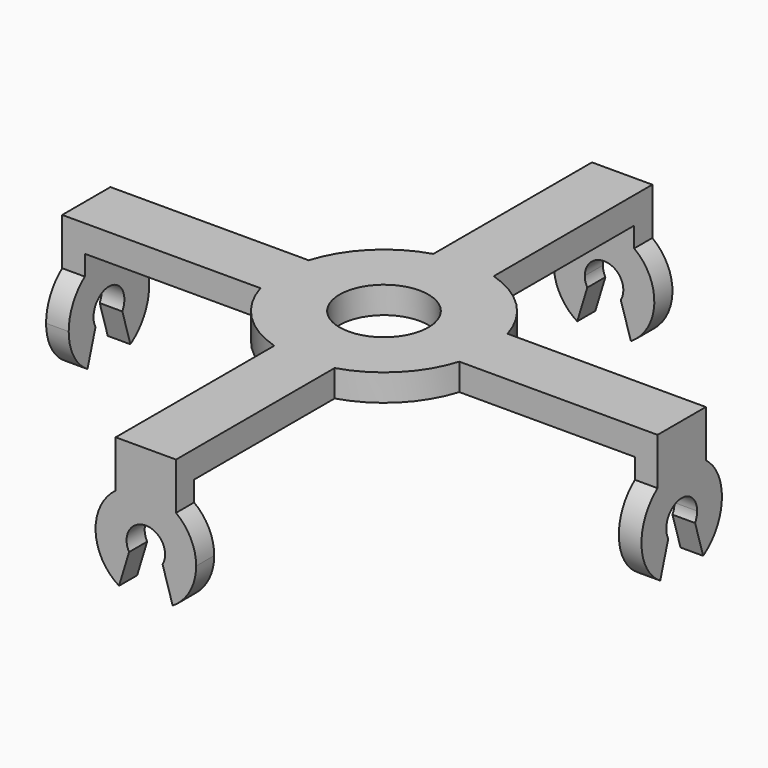
from build123d import *

# Parameters (mm, degrees)
F0_W      = 9
F0_H      = 9
F1_DEPTH  = 4
F7_DEPTH  = 3.375
F8_DEPTH  = 3.375
F9_DEPTH  = 3.375
F10_DEPTH = 3.375
F11_D     = 13.25


with BuildPart() as f1:
    # F0 (on Top) → F1 (new body)
    with BuildSketch(Plane.XY):
        with BuildLine():
            ThreePointArc((4.5, -14.8323969742), (0, -15.5), (-4.5, -14.8323969742))
            Line((-4.5, -14.8323969742), (-4.5, -44.4))
            Line((-4.5, -44.4), (4.5, -44.4))
            Line((4.5, -44.4), (4.5, -14.8323969742))
        make_face()
        with BuildLine():
            Line((4.5, -4.5), (-4.5, -4.5))
            Line((-4.5, -4.5), (-4.5, -14.8323969742))
            ThreePointArc((-4.5, -14.8323969742), (0, -15.5), (4.5, -14.8323969742))
            Line((4.5, -14.8323969742), (4.5, -4.5))
        make_face()
        with BuildLine():
            Line((-4.5, -4.5), (-14.8323969742, -4.5))
            ThreePointArc((-14.8323969742, -4.5), (-10.9601551084, -10.9601551084), (-4.5, -14.8323969742))
            Line((-4.5, -14.8323969742), (-4.5, -4.5))
        make_face()
        with BuildLine():
            Line((-4.5, 4.5), (-14.8323969742, 4.5))
            ThreePointArc((-14.8323969742, 4.5), (-15.5, 0), (-14.8323969742, -4.5))
            Line((-14.8323969742, -4.5), (-4.5, -4.5))
            Line((-4.5, -4.5), (-4.5, 4.5))
        make_face()
        with BuildLine():
            Line((14.8323969742, -4.5), (4.5, -4.5))
            Line((4.5, -4.5), (4.5, -14.8323969742))
            ThreePointArc((4.5, -14.8323969742), (10.9601551084, -10.9601551084), (14.8323969742, -4.5))
        make_face()
        with BuildLine():
            Line((14.8323969742, 4.5), (4.5, 4.5))
            Line((4.5, 4.5), (4.5, -4.5))
            Line((4.5, -4.5), (14.8323969742, -4.5))
            ThreePointArc((14.8323969742, -4.5), (15.3321908594, -2.2746260022), (15.5, 0))
            ThreePointArc((15.5, 0), (15.3321908594, 2.2746260022), (14.8323969742, 4.5))
        make_face()
        with BuildLine():
            Line((44.4, 4.5), (14.8323969742, 4.5))
            ThreePointArc((14.8323969742, 4.5), (15.3321908594, 2.2746260022), (15.5, 0))
            ThreePointArc((15.5, 0), (15.3321908594, -2.2746260022), (14.8323969742, -4.5))
            Line((14.8323969742, -4.5), (44.4, -4.5))
            Line((44.4, -4.5), (44.4, 4.5))
        make_face()
        with BuildLine():
            Line((-14.8323969742, 4.5), (-44.4, 4.5))
            Line((-44.4, 4.5), (-44.4, -4.5))
            Line((-44.4, -4.5), (-14.8323969742, -4.5))
            ThreePointArc((-14.8323969742, -4.5), (-15.5, 0), (-14.8323969742, 4.5))
        make_face()
        Rectangle(F0_W, F0_H)
        with BuildLine():
            Line((-4.5, 14.8323969742), (-4.5, 4.5))
            Line((-4.5, 4.5), (4.5, 4.5))
            Line((4.5, 4.5), (4.5, 14.8323969742))
            ThreePointArc((4.5, 14.8323969742), (0, 15.5), (-4.5, 14.8323969742))
        make_face()
        with BuildLine():
            Line((4.5, 14.8323969742), (4.5, 4.5))
            Line((4.5, 4.5), (14.8323969742, 4.5))
            ThreePointArc((14.8323969742, 4.5), (10.9601551084, 10.9601551084), (4.5, 14.8323969742))
        make_face()
        with BuildLine():
            Line((-4.5, 44.4), (-4.5, 14.8323969742))
            ThreePointArc((-4.5, 14.8323969742), (0, 15.5), (4.5, 14.8323969742))
            Line((4.5, 14.8323969742), (4.5, 44.4))
            Line((4.5, 44.4), (-4.5, 44.4))
        make_face()
        with BuildLine():
            ThreePointArc((-4.5, 14.8323969742), (-10.9601551084, 10.9601551084), (-14.8323969742, 4.5))
            Line((-14.8323969742, 4.5), (-4.5, 4.5))
            Line((-4.5, 4.5), (-4.5, 14.8323969742))
        make_face()
        with BuildLine():
            ThreePointArc((-4.5, 14.8323969742), (-10.9601551084, 10.9601551084), (-14.8323969742, 4.5))
            Line((-14.8323969742, 4.5), (-4.5, 4.5))
            Line((-4.5, 4.5), (-4.5, 14.8323969742))
        make_face()
        with BuildLine():
            Line((4.5, 14.8323969742), (4.5, 4.5))
            Line((4.5, 4.5), (14.8323969742, 4.5))
            ThreePointArc((14.8323969742, 4.5), (10.9601551084, 10.9601551084), (4.5, 14.8323969742))
        make_face()
        Rectangle(F0_W, F0_H)
        Rectangle(F0_W, F0_H)
        Rectangle(F0_W, F0_H)
    extrude(amount=F1_DEPTH)

    # F3 (on face) → F7 (join)
    with BuildSketch(Plane.XZ.offset(44.4)):
        with BuildLine():
            Line((4.5, 0), (-4.5, 0))
            Line((-4.5, 0), (-4.5, -3))
            ThreePointArc((-4.5, -3), (0, -1.5), (4.5, -3))
            Line((4.5, -3), (4.5, 0))
        make_face()
        with BuildLine():
            Line((4.5, -3), (-4.5, -3))
            ThreePointArc((-4.5, -3), (-7.4938552368, -9.3035353181), (-4, -15.3442887702))
            Line((-4, -15.3442887702), (-2.5, -10.4197270865))
            ThreePointArc((-2.5, -10.4197270865), (-0.7342087578, -6.2203305053), (2.875, -9))
            ThreePointArc((2.875, -9), (2.7796694947, -9.7342087578), (2.5, -10.4197270865))
            Line((2.5, -10.4197270865), (4, -15.3442887702))
            ThreePointArc((4, -15.3442887702), (6.5669627683, -12.6228441865), (7.5, -9))
            ThreePointArc((7.5, -9), (6.7082039325, -5.6458980338), (4.5, -3))
        make_face()
        with BuildLine():
            ThreePointArc((4.5, -3), (0, -1.5), (-4.5, -3))
            Line((-4.5, -3), (4.5, -3))
        make_face()
    extrude(amount=-F7_DEPTH)

    # F6 (on face) → F8 (join)
    with BuildSketch(Plane.YZ.offset(44.4)):
        with BuildLine():
            Line((4.5, 0), (-4.5, 0))
            Line((-4.5, 0), (-4.5, -3))
            ThreePointArc((-4.5, -3), (0, -1.5), (4.5, -3))
            Line((4.5, -3), (4.5, 0))
        make_face()
        with BuildLine():
            ThreePointArc((4.5, -3), (0, -1.5), (-4.5, -3))
            Line((-4.5, -3), (4.5, -3))
        make_face()
        with BuildLine():
            Line((4.5, -3), (-4.5, -3))
            ThreePointArc((-4.5, -3), (-7.4938552368, -9.3035353181), (-4, -15.3442887702))
            Line((-4, -15.3442887702), (-2.5, -10.4197270865))
            ThreePointArc((-2.5, -10.4197270865), (-0.7342087578, -6.2203305053), (2.875, -9))
            ThreePointArc((2.875, -9), (2.7796694947, -9.7342087578), (2.5, -10.4197270865))
            Line((2.5, -10.4197270865), (4, -15.3442887702))
            ThreePointArc((4, -15.3442887702), (6.5669627683, -12.6228441865), (7.5, -9))
            ThreePointArc((7.5, -9), (6.7082039325, -5.6458980338), (4.5, -3))
        make_face()
    extrude(amount=-F8_DEPTH)

    # F5 (on face) → F9 (join)
    with BuildSketch(Plane(origin=(0, 44.4, 0), x_dir=(-1, 0, 0), z_dir=(0, 1, 0))):
        with BuildLine():
            Line((4.5, 0), (-4.5, 0))
            Line((-4.5, 0), (-4.5, -3))
            ThreePointArc((-4.5, -3), (0, -1.5), (4.5, -3))
            Line((4.5, -3), (4.5, 0))
        make_face()
        with BuildLine():
            ThreePointArc((4.5, -3), (0, -1.5), (-4.5, -3))
            Line((-4.5, -3), (4.5, -3))
        make_face()
        with BuildLine():
            Line((4.5, -3), (-4.5, -3))
            ThreePointArc((-4.5, -3), (-7.4938552368, -9.3035353181), (-4, -15.3442887702))
            Line((-4, -15.3442887702), (-2.5, -10.4197270865))
            ThreePointArc((-2.5, -10.4197270865), (-0.7342087578, -6.2203305053), (2.875, -9))
            ThreePointArc((2.875, -9), (2.7796694947, -9.7342087578), (2.5, -10.4197270865))
            Line((2.5, -10.4197270865), (4, -15.3442887702))
            ThreePointArc((4, -15.3442887702), (6.5669627683, -12.6228441865), (7.5, -9))
            ThreePointArc((7.5, -9), (6.7082039325, -5.6458980338), (4.5, -3))
        make_face()
    extrude(amount=-F9_DEPTH)

    # F4 (on face) → F10 (join)
    with BuildSketch(Plane(origin=(-44.4, 0, 0), x_dir=(0, -1, 0), z_dir=(-1, 0, 0))):
        with BuildLine():
            Line((4.5, 0), (-4.5, 0))
            Line((-4.5, 0), (-4.5, -3))
            ThreePointArc((-4.5, -3), (0, -1.5), (4.5, -3))
            Line((4.5, -3), (4.5, 0))
        make_face()
        with BuildLine():
            Line((4.5, -3), (-4.5, -3))
            ThreePointArc((-4.5, -3), (-7.4938552368, -9.3035353181), (-4, -15.3442887702))
            Line((-4, -15.3442887702), (-2.5, -10.4197270865))
            ThreePointArc((-2.5, -10.4197270865), (-0.7342087578, -6.2203305053), (2.875, -9))
            ThreePointArc((2.875, -9), (2.7796694947, -9.7342087578), (2.5, -10.4197270865))
            Line((2.5, -10.4197270865), (4, -15.3442887702))
            ThreePointArc((4, -15.3442887702), (6.5669627683, -12.6228441865), (7.5, -9))
            ThreePointArc((7.5, -9), (6.7082039325, -5.6458980338), (4.5, -3))
        make_face()
        with BuildLine():
            ThreePointArc((4.5, -3), (0, -1.5), (-4.5, -3))
            Line((-4.5, -3), (4.5, -3))
        make_face()
    extrude(amount=-F10_DEPTH)

    # F11 (through all)
    with Locations(Plane(origin=(0, 0, 0), x_dir=(1, 0, 0), z_dir=(0, 0, -1))):
        with Locations((0, 0)):
            Hole(F11_D / 2)


solid = f1.part
